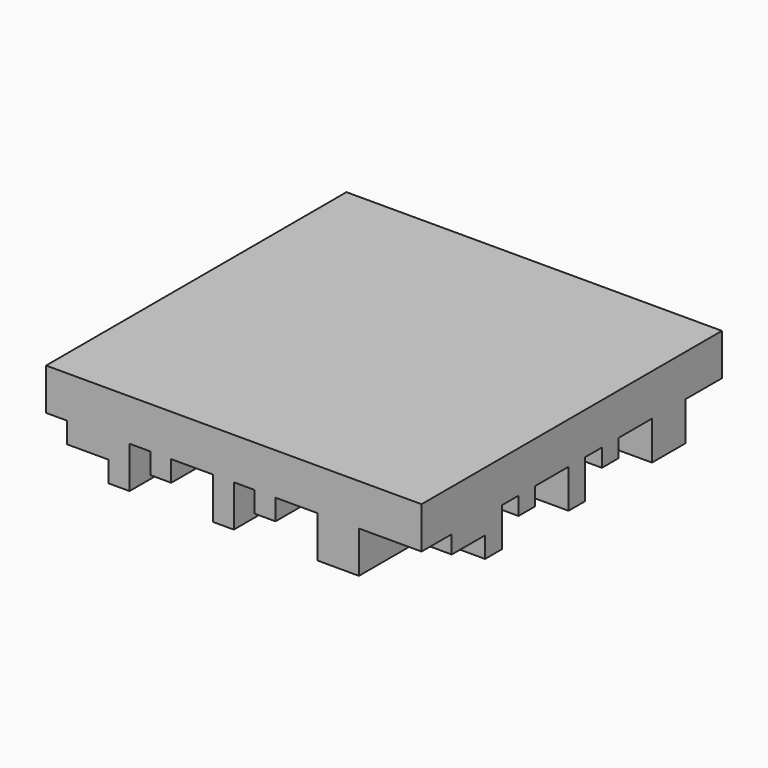
from build123d import *

# Parameters (mm, degrees)
F0_W     = 4
F0_H     = 4
F0_W_2   = 2
F0_H_2   = 2
F1_DEPTH = 36
F2_W     = 4
F2_H     = 4
F2_W_2   = 2
F2_H_2   = 2
F3_DEPTH = 4
F4_W     = 4
F4_H     = 4
F4_W_2   = 2
F4_H_2   = 2
F5_DEPTH = 4


with BuildPart() as f1:
    # F0 (on Front) → F1 (new body)
    with BuildSketch(Plane.XZ):
        Polygon((16, -2), (18, -2), (18, 2), (-18, 2), (-18, -2), (-16, -2), (-10, -2), (-8, -2), (-6, -2), (-2, -2), (0, -2), (2, -2), (4, -2), (8, -2), (12, -2), align=None)
        with Locations((10, -4)):
            Rectangle(F0_W, F0_H)
        with Locations((3, -3)):
            Rectangle(F0_W_2, F0_H_2)
        Polygon((-10, -2), (-16, -2), (-16, -4), (-12, -4), (-12, -6), (-10, -6), align=None)
        with Locations((-1, -4)):
            Rectangle(F0_W_2, F0_H)
        with Locations((-7, -3)):
            Rectangle(F0_W_2, F0_H_2)
    extrude(amount=F1_DEPTH)

    # F2 (on face) → F3 (join)
    with BuildSketch(Plane.YZ.offset(18)):
        with Locations((-6.381626, -3.717597)):
            Rectangle(F2_W, F2_H)
        Polygon((-26.381626, -5.717597), (-26.381626, -1.717597), (-32.381626, -1.717597), (-32.381626, -3.717597), (-28.381626, -3.717597), (-28.381626, -5.717597), align=None)
        with Locations((-23.381626, -2.717597)):
            Rectangle(F2_W_2, F2_H_2)
        with Locations((-17.381626, -3.717597)):
            Rectangle(F2_W_2, F2_H)
        with Locations((-13.381626, -2.717597)):
            Rectangle(F2_W_2, F2_H_2)
    extrude(amount=-F3_DEPTH)

    # F4 (on face) → F5 (join)
    with BuildSketch(Plane(origin=(-18, 0, 0), x_dir=(0, -1, 0), z_dir=(-1, 0, 0))):
        Polygon((27.795796, -2.352679), (31.795796, -2.352679), (31.795796, 1.647321), (-0.204204, 1.647321), (-0.204204, -2.352679), (5.795796, -2.352679), (7.795796, -2.352679), (9.795796, -2.352679), (13.795796, -2.352679), (15.795796, -2.352679), (17.795796, -2.352679), (19.795796, -2.352679), (23.795796, -2.352679), align=None)
        with Locations((25.795796, -4.352679)):
            Rectangle(F4_W, F4_H)
        with Locations((18.795796, -3.352679)):
            Rectangle(F4_W_2, F4_H_2)
        Polygon((5.795796, -2.352679), (-0.204204, -2.352679), (-0.204204, -4.352679), (3.795796, -4.352679), (3.795796, -6.352679), (5.795796, -6.352679), align=None)
        with Locations((14.795796, -4.352679)):
            Rectangle(F4_W_2, F4_H)
        with Locations((8.795796, -3.352679)):
            Rectangle(F4_W_2, F4_H_2)
    extrude(amount=-F5_DEPTH)


solid = f1.part
